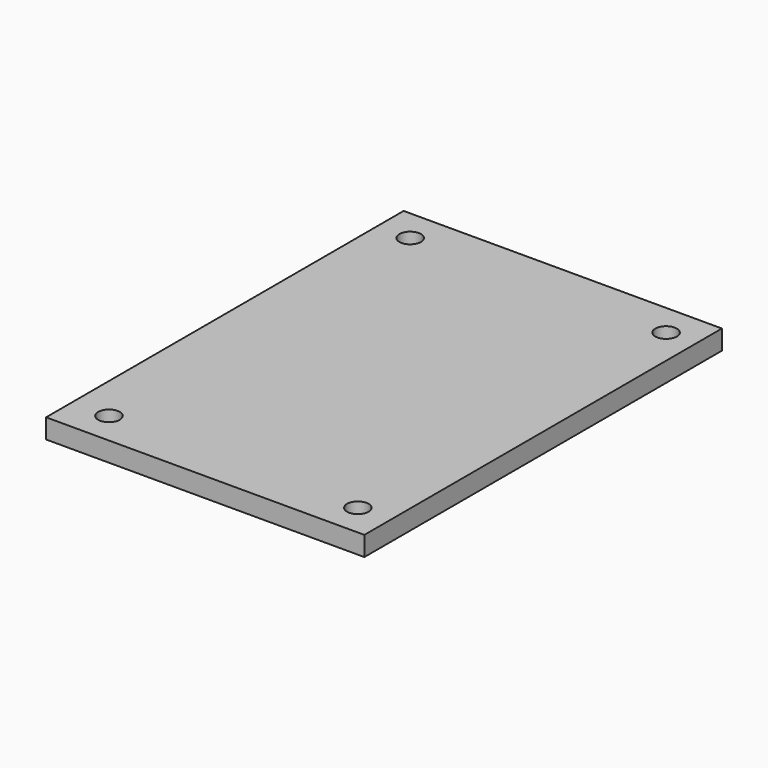
from build123d import *

# Parameters (mm, degrees)
SKETCH_W  = 48.828644
SKETCH_H  = 68.568332
SKETCH_R  = 1.652016
PAD_DEPTH = 3


with BuildPart() as part:
    # Sketch → Pad (new body)
    with BuildSketch(Plane.XY):
        with Locations((0, 1.409979)):
            Rectangle(SKETCH_W, SKETCH_H)
        with Locations((-19.414316, 30.694145)):
            Circle(SKETCH_R, mode=Mode.SUBTRACT)
        with Locations((19.84816, 30.694145)):
            Circle(SKETCH_R, mode=Mode.SUBTRACT)
        with Locations((19.414322, -27.874187)):
            Circle(SKETCH_R, mode=Mode.SUBTRACT)
        with Locations((-18.76355, -27.874187)):
            Circle(SKETCH_R, mode=Mode.SUBTRACT)
    extrude(amount=PAD_DEPTH)


solid = part.part
